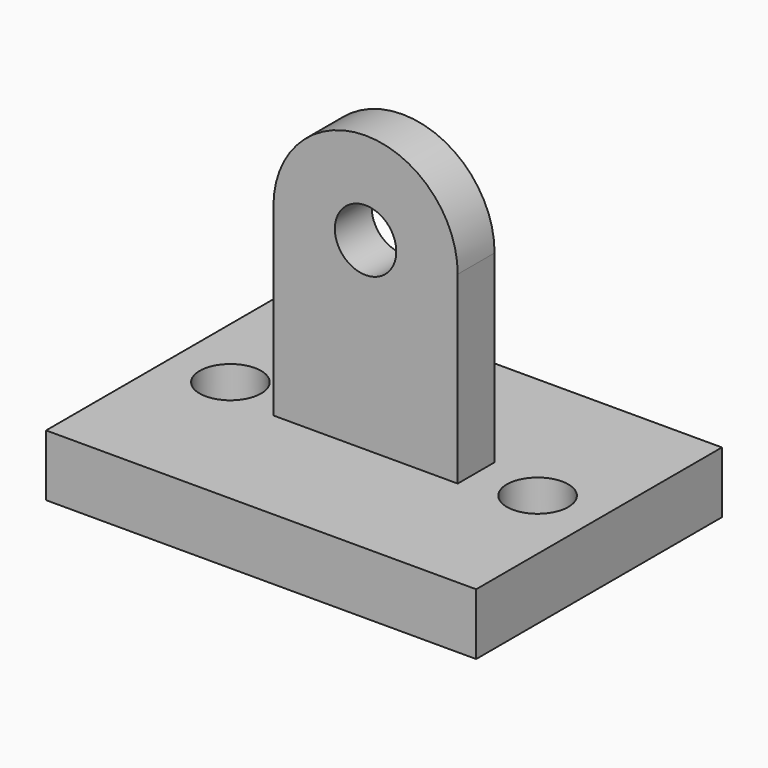
from build123d import *

# Parameters (mm, degrees)
F1_DEPTH      = 10
F1_DEPTH_BACK = 10
F2_DEPTH      = 1.5
F2_DEPTH_BACK = 1.5
F3_R          = 2
F4_DEPTH      = 5
F4_DEPTH_BACK = 5


with BuildPart() as f1:
    # F0 (on Front) → F1 (new body, two sides)
    with BuildSketch(Plane.XZ) as f1_sk:
        Polygon((25.327755, 0), (17.327755, 0), (5.327755, 0), (-2.672245, 0), (-2.672245, -4), (25.327755, -4), align=None)
    extrude(amount=F1_DEPTH)
    extrude(f1_sk.sketch, amount=-F1_DEPTH_BACK)

    # F0 (on Front) → F2 (join, two sides)
    with BuildSketch(Plane.XZ) as f2_sk:
        with BuildLine():
            Line((5.327755, 0), (17.327755, 0))
            Line((17.327755, 0), (17.327755, 12))
            ThreePointArc((17.327755, 12), (11.327755, 6), (5.327755, 12))
            Line((5.327755, 12), (5.327755, 0))
        make_face()
        with BuildLine():
            ThreePointArc((5.327755, 12), (11.327755, 6), (17.327755, 12))
            Line((17.327755, 12), (13.327755, 12))
            ThreePointArc((13.327755, 12), (11.327755, 10), (9.327755, 12))
            Line((9.327755, 12), (5.327755, 12))
        make_face()
        with BuildLine():
            Line((13.327755, 12), (17.327755, 12))
            ThreePointArc((17.327755, 12), (11.327755, 18), (5.327755, 12))
            Line((5.327755, 12), (9.327755, 12))
            ThreePointArc((9.327755, 12), (11.327755, 14), (13.327755, 12))
        make_face()
    extrude(amount=F2_DEPTH)
    extrude(f2_sk.sketch, amount=-F2_DEPTH_BACK)

    # F3 (on face) → F4 (cut, two sides)
    with BuildSketch(Plane.XY) as f4_sk:
        with Locations((1.327755, 0)):
            Circle(F3_R)
        with Locations((21.327755, 0)):
            Circle(F3_R)
    extrude(amount=-F4_DEPTH, mode=Mode.SUBTRACT)
    extrude(f4_sk.sketch, amount=-F4_DEPTH_BACK, mode=Mode.SUBTRACT)


solid = f1.part
